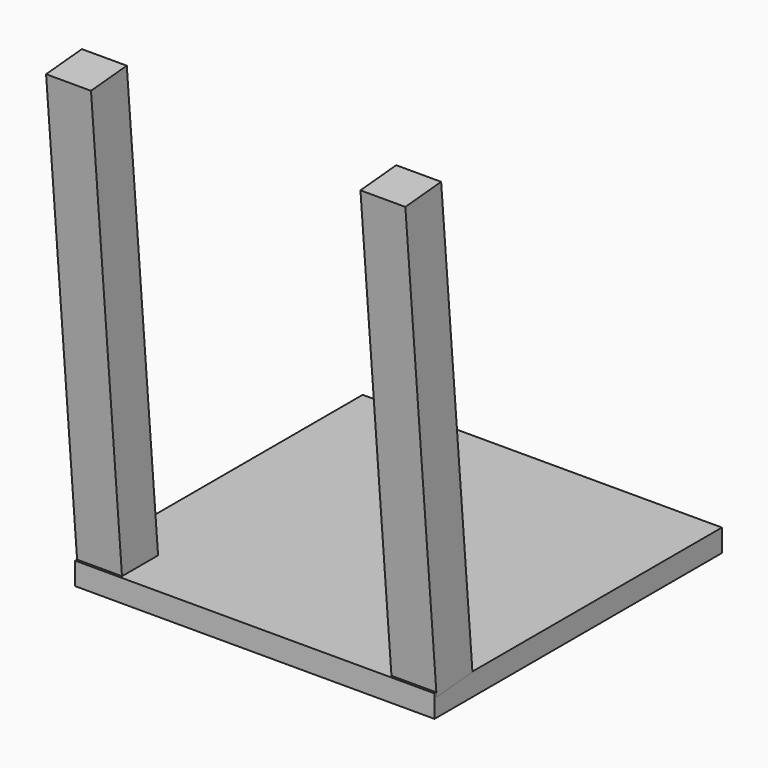
from build123d import *

# Parameters (mm, degrees)
F0_W     = 101.6
F0_H     = 101.6
F1_DEPTH = 6.35
F4_W     = 12.7
F4_H     = 12.7
F5_DEPTH = 127


with BuildPart() as f1:
    # F0 (on Top) → F1 (new body)
    with BuildSketch(Plane.XY):
        Rectangle(F0_W, F0_H)
    extrude(amount=F1_DEPTH)


with BuildPart() as f5:
    # F4 (on face) → F5 (new body)
    with BuildSketch(Plane(origin=(0, -0.826949, 9.452075), x_dir=(1, 0, 0), z_dir=(0, -0.087156, 0.996195))):
        with Locations((-44.45, -43.051091)):
            Rectangle(F4_W, F4_H)
        with Locations((44.45, -43.051091)):
            Rectangle(F4_W, F4_H)
    extrude(amount=F5_DEPTH)


solid = Compound([f1.part, f5.part])
